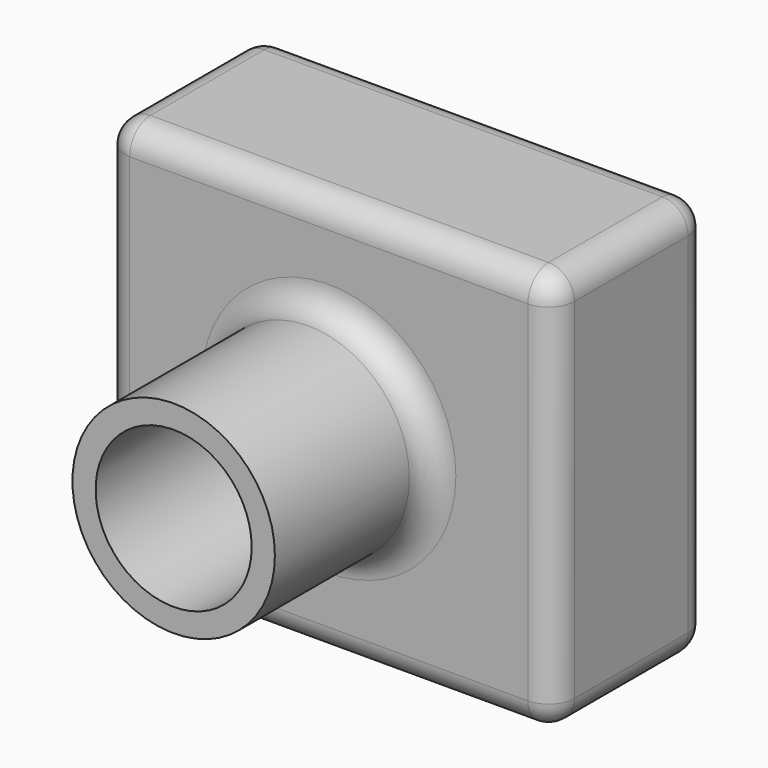
from build123d import *

# Parameters (mm, degrees)
F0_W     = 88.3796066046
F0_H     = 78.8212642074
F1_DEPTH = 38.1
F2_R     = 19.8886852244
F3_DEPTH = 76.2
F4_R     = 15.3300862408
F5_DEPTH = 101.6
F6_R     = 5.08


with BuildPart() as f1:
    # F0 (on Front) → F1 (new body)
    with BuildSketch(Plane.XZ):
        Rectangle(F0_W, F0_H)
    extrude(amount=F1_DEPTH)

    # F2 (on Front) → F3 (join)
    with BuildSketch(Plane.XZ):
        Circle(F2_R)
    extrude(amount=F3_DEPTH)

    # F4 (on face) → F5 (cut)
    with BuildSketch(Plane.XZ.offset(76.2)):
        Circle(F4_R)
    extrude(amount=-F5_DEPTH, mode=Mode.SUBTRACT)

    # F6
    f6_edges = [f1.edges().sort_by_distance(p)[0] for p in [
        (-44.189803, -19.05, 39.410632),
        (0, 0, 39.410632),
        (0, -38.1, 39.410632),
        (44.189803, -38.1, 0),
        (-44.189803, -38.1, 0),
        (0, -38.1, -39.410632),
        (-19.888685, -38.1, 0),
        (44.189803, -19.05, -39.410632),
        (44.189803, -19.05, 39.410632),
        (44.189803, 0, 0),
        (-44.189803, 0, 0),
        (0, 0, -39.410632),
        (-15.330086, 0, 0),
    ]]
    fillet(f6_edges, radius=F6_R)


solid = f1.part
